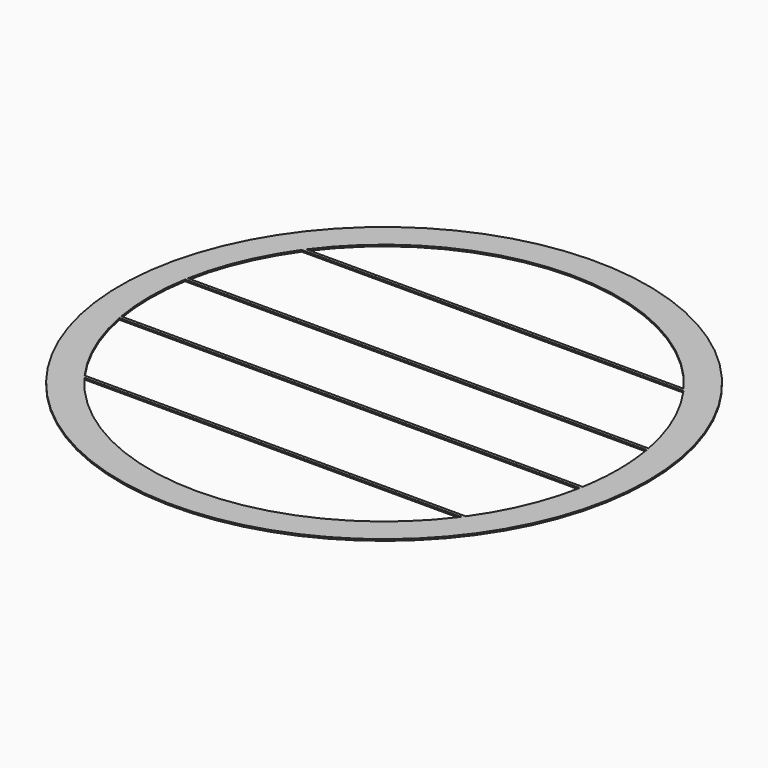
from build123d import *

# Parameters (mm, degrees)
F0_R     = 522.5
F1_DEPTH = 3.18


with BuildPart() as f1:
    # F0 (on Top) → F1 (new body)
    with BuildSketch(Plane.XY):
        Circle(F0_R)
        with BuildLine():
            ThreePointArc((456.846254, 78.55), (461.871023, 39.417771), (463.55, 0))
            ThreePointArc((463.55, 0), (461.831965, -39.872779), (456.690595, -79.45))
            ThreePointArc((456.690595, -79.45), (456.158203, -82.451783), (455.60608, -85.45))
            ThreePointArc((455.60608, -85.45), (426.442242, -181.729515), (377.193982, -269.45))
            ThreePointArc((377.193982, -269.45), (375.026465, -272.458718), (372.83495, -275.45))
            ThreePointArc((372.83495, -275.45), (0, -463.55), (-372.83495, -275.45))
            ThreePointArc((-372.83495, -275.45), (-375.026465, -272.458718), (-377.193982, -269.45))
            ThreePointArc((-377.193982, -269.45), (-426.442242, -181.729515), (-455.60608, -85.45))
            ThreePointArc((-455.60608, -85.45), (-456.158203, -82.451783), (-456.690595, -79.45))
            ThreePointArc((-456.690595, -79.45), (-463.549775, -0.456681), (-456.846254, 78.55))
            ThreePointArc((-456.846254, 78.55), (-456.319967, 81.551762), (-455.773957, 84.55))
            ThreePointArc((-455.773957, 84.55), (-426.837312, 180.799645), (-377.835282, 268.55))
            ThreePointArc((-377.835282, 268.55), (-375.678716, 271.558659), (-373.498193, 274.55))
            ThreePointArc((-373.498193, 274.55), (0, 463.55), (373.498193, 274.55))
            ThreePointArc((373.498193, 274.55), (375.678716, 271.558659), (377.835282, 268.55))
            ThreePointArc((377.835282, 268.55), (426.837312, 180.799645), (455.773957, 84.55))
            ThreePointArc((455.773957, 84.55), (456.319967, 81.551762), (456.846254, 78.55))
        make_face(mode=Mode.SUBTRACT)
        with BuildLine():
            Line((-377.835282, 268.55), (377.835282, 268.55))
            ThreePointArc((377.835282, 268.55), (375.678716, 271.558659), (373.498193, 274.55))
            Line((373.498193, 274.55), (-373.498193, 274.55))
            ThreePointArc((-373.498193, 274.55), (-375.678716, 271.558659), (-377.835282, 268.55))
        make_face()
        with BuildLine():
            Line((-456.846254, 78.55), (456.846254, 78.55))
            ThreePointArc((456.846254, 78.55), (456.319967, 81.551762), (455.773957, 84.55))
            Line((455.773957, 84.55), (-455.773957, 84.55))
            ThreePointArc((-455.773957, 84.55), (-456.319967, 81.551762), (-456.846254, 78.55))
        make_face()
        with BuildLine():
            ThreePointArc((455.60608, -85.45), (456.158203, -82.451783), (456.690595, -79.45))
            Line((456.690595, -79.45), (-456.690595, -79.45))
            ThreePointArc((-456.690595, -79.45), (-456.158203, -82.451783), (-455.60608, -85.45))
            Line((-455.60608, -85.45), (455.60608, -85.45))
        make_face()
        with BuildLine():
            ThreePointArc((372.83495, -275.45), (375.026465, -272.458718), (377.193982, -269.45))
            Line((377.193982, -269.45), (-377.193982, -269.45))
            ThreePointArc((-377.193982, -269.45), (-375.026465, -272.458718), (-372.83495, -275.45))
            Line((-372.83495, -275.45), (372.83495, -275.45))
        make_face()
    extrude(amount=F1_DEPTH)


solid = f1.part
